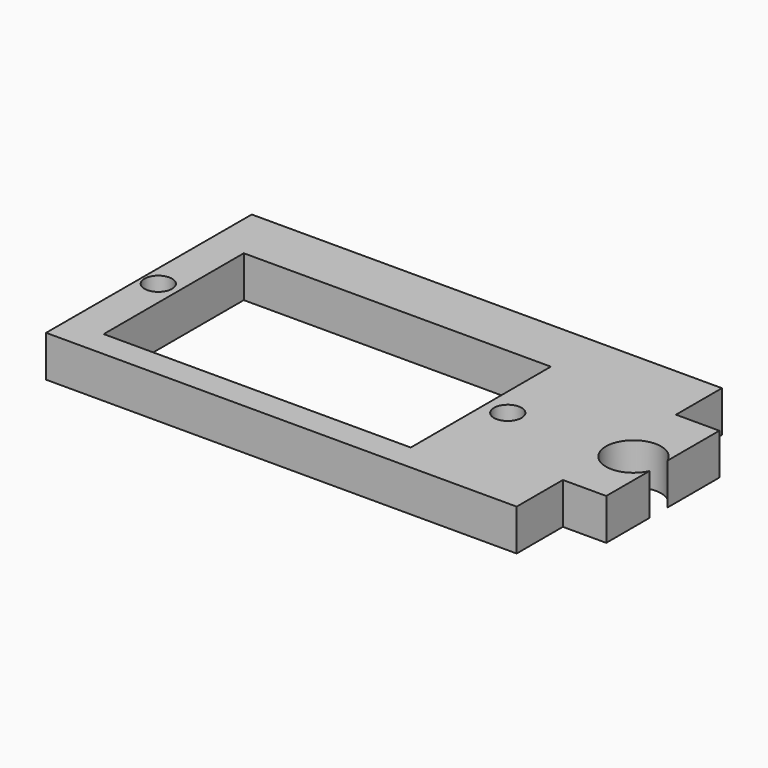
from build123d import *

# Parameters (mm, degrees)
F0_R     = 1.1224142381
F0_W     = 22.305868566
F0_H     = 12.7213150263
F0_R_2   = 0.6302857898
F0_R_3   = 1.6961440054
F1_DEPTH = 3
F2_D     = 2
F3_D     = 2
F5_D     = 4


with BuildPart() as f1:
    # F0 (on Top) → F1 (new body)
    with BuildSketch(Plane.XY):
        Polygon((-29.121896252, 54.77469787), (-63.2777586579, 54.77469787), (-63.3072480559, 36.1355394125), (-29.121896252, 36.1355394125), (-29.121896252, 40.332082659), (-25.9702913463, 40.332082659), (-25.9702913463, 50.6002567708), (-29.121896252, 50.6002567708), align=None)
        with Locations((-62.0993860066, 44.8157414794)):
            Circle(F0_R, mode=Mode.SUBTRACT)
        with Locations((-49.5029501617, 44.4138646126)):
            Rectangle(F0_W, F0_H, mode=Mode.SUBTRACT)
        with Locations((-36.7128923535, 44.8157414794)):
            Circle(F0_R_2, mode=Mode.SUBTRACT)
        with Locations((-29.121896252, 45.4661697149)):
            Circle(F0_R_3, mode=Mode.SUBTRACT)
        with Locations((-29.121896252, 45.4661697149)):
            Circle(F0_R_3)
        with Locations((-62.0993860066, 44.8157414794)):
            Circle(F0_R)
        with Locations((-36.7128923535, 44.8157414794)):
            Circle(F0_R_2)
    extrude(amount=F1_DEPTH)

    # F2 (through all)
    with Locations(Plane(origin=(0, 0, 0), x_dir=(1, 0, 0), z_dir=(0, 0, -1))):
        with Locations((-62.0993860066, -44.8157414794)):
            Hole(F2_D / 2)

    # F3 (through all)
    with Locations(Plane(origin=(0, 0, 0), x_dir=(1, 0, 0), z_dir=(0, 0, -1))):
        with Locations((-36.7128923535, -44.8157414794)):
            Hole(F3_D / 2)

    # F5 (through all)
    with Locations(Plane.XY.offset(3)):
        with Locations((-27.7918130159, 45.0828969479)):
            Hole(F5_D / 2)


solid = f1.part
